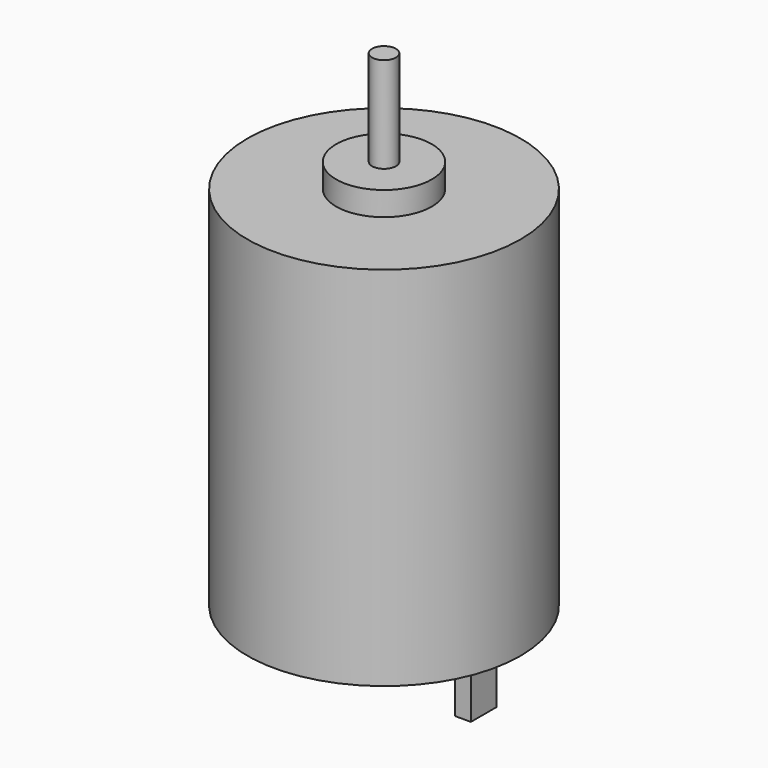
from build123d import *

# Parameters (mm, degrees)
F2_R     = 0.75
F3_DEPTH = 6
F4_W     = 1
F4_H     = 2
F5_DEPTH = 4


with BuildPart() as f1:
    # F0 (on Front) → F1 (revolve)
    with BuildSketch(Plane.XZ):
        Polygon((2.5, -1.5), (2.5, 0), (8.5725, 0), (8.5725, 23), (3, 23), (3, 24.5), (0, 24.5), (0, -1.5), align=None)
    revolve(axis=Axis((0, 0, 11.5), (0, 0, 1)))

    # F2 (on face) → F3 (join)
    with BuildSketch(Plane.XY.offset(24.5)):
        Circle(F2_R)
    extrude(amount=F3_DEPTH)

    # F4 (on face) → F5 (join)
    with BuildSketch(Plane(origin=(0, 0, 0), x_dir=(1, 0, 0), z_dir=(0, 0, -1))):
        with Locations((5.75, 0)):
            Rectangle(F4_W, F4_H)
        with Locations((-5.75, 0)):
            Rectangle(F4_W, F4_H)
    extrude(amount=F5_DEPTH)


solid = f1.part
